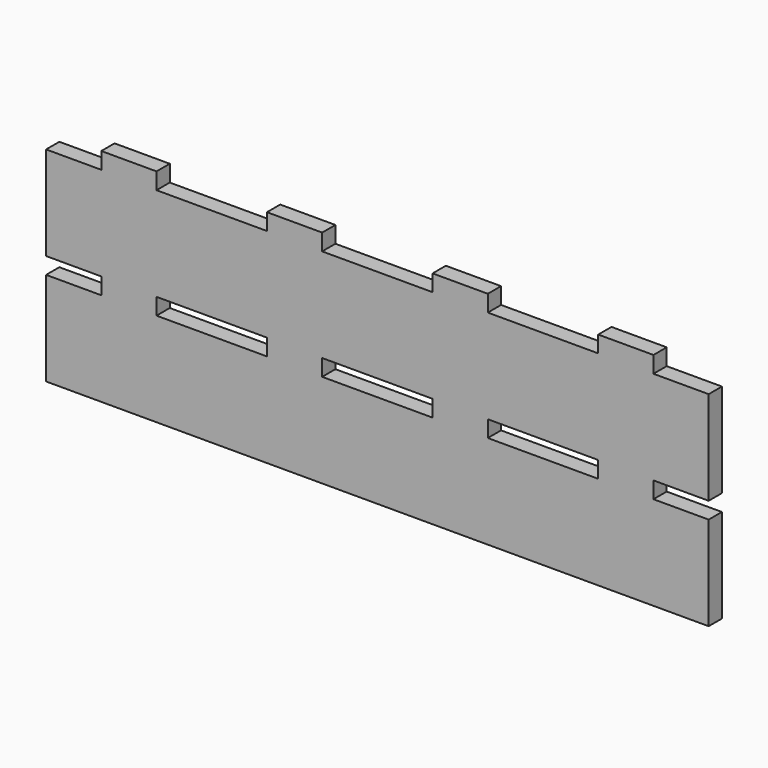
from build123d import *

# Parameters (mm, degrees)
F1_W     = 20
F1_H     = 3
F2_DEPTH = 3


with BuildPart() as f2:
    # F1 (on Front) → F2 (new body)
    with BuildSketch(Plane.XZ):
        Polygon((-60, -20), (60, -20), (60, -3), (50, -3), (50, 0), (60, 0), (60, 17), (50, 17), (50, 20), (40, 20), (40, 17), (20, 17), (20, 20), (10, 20), (10, 17), (-10, 17), (-10, 20), (-20, 20), (-20, 17), (-40, 17), (-40, 20), (-50, 20), (-50, 17), (-60, 17), (-60, 0), (-50, 0), (-50, -3), (-60, -3), align=None)
        with Locations((-30, -1.5)):
            Rectangle(F1_W, F1_H, mode=Mode.SUBTRACT)
        with Locations((0, -1.5)):
            Rectangle(F1_W, F1_H, mode=Mode.SUBTRACT)
        with Locations((30, -1.5)):
            Rectangle(F1_W, F1_H, mode=Mode.SUBTRACT)
    extrude(amount=-F2_DEPTH)


solid = f2.part
